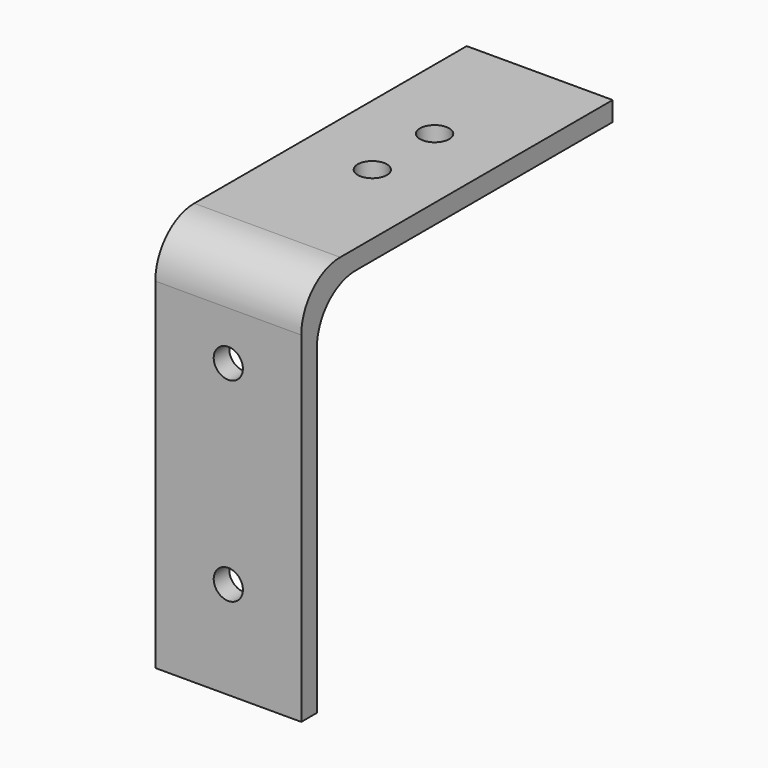
from build123d import *

# Parameters (mm, degrees)
F1_DEPTH = 15
F2_R     = 5
F3_R     = 5
F5_D     = 3
F7_D     = 3


with BuildPart() as f1:
    # F0 (on Right) → F1 (new body)
    with BuildSketch(Plane.YZ):
        Polygon((-2, -38), (0, -38), (0, 0), (38, 0), (38, 2), (-2, 2), align=None)
    extrude(amount=F1_DEPTH)

    # F2
    f2_edges = [f1.edges().sort_by_distance(p)[0] for p in [
        (7.5, -2, 2),
    ]]
    fillet(f2_edges, radius=F2_R)

    # F3
    f3_edges = [f1.edges().sort_by_distance(p)[0] for p in [
        (7.5, 0, 0),
    ]]
    fillet(f3_edges, radius=F3_R)

    # F5 (through all)
    with Locations(Plane.XY.offset(2)):
        with Locations((7.5, 24.5), (7.5, 16.5)):
            Hole(F5_D / 2)

    # F7 (through all)
    with Locations(Plane.XZ.offset(2)):
        with Locations((7.5, -8), (7.5, -28)):
            Hole(F7_D / 2)


solid = f1.part
